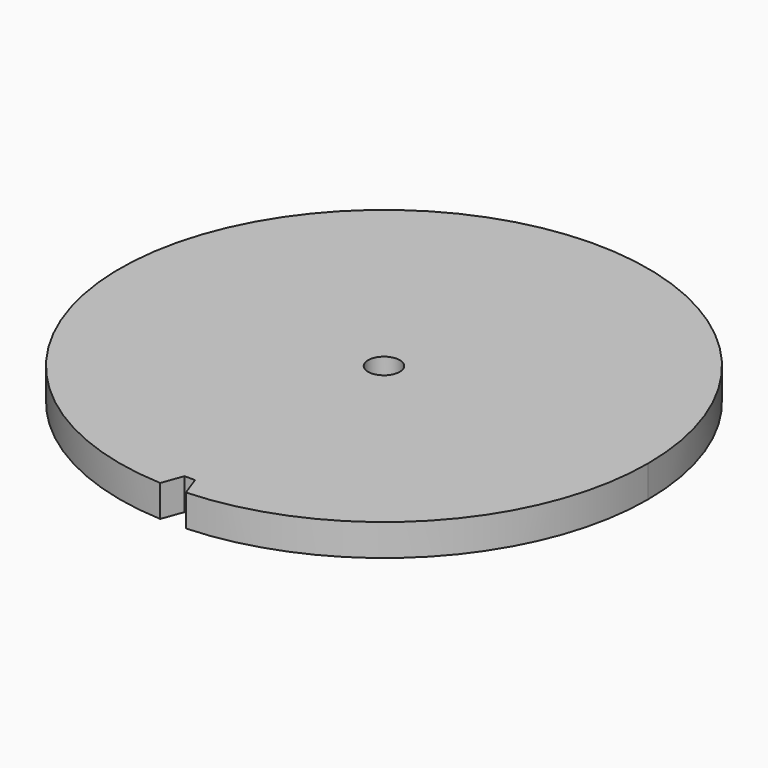
from build123d import *

# Parameters (mm, degrees)
F0_R     = 50
F1_DEPTH = 6
F2_R     = 3
F3_DEPTH = 6
F5_DEPTH = 6


with BuildPart() as f1:
    # F0 (on Top) → F1 (new body)
    with BuildSketch(Plane.XY):
        Circle(F0_R)
    extrude(amount=F1_DEPTH)

    # F2 (on face) → F3 (cut, through all)
    with BuildSketch(Plane(origin=(0, 0, 0), x_dir=(1, 0, 0), z_dir=(0, 0, -1))):
        Circle(F2_R)
    extrude(amount=-F3_DEPTH, mode=Mode.SUBTRACT)

    # F4 (on face) → F5 (cut, through all)
    with BuildSketch(Plane(origin=(0, 0, 0), x_dir=(1, 0, 0), z_dir=(0, 0, -1))):
        with BuildLine():
            Line((-1, 45.989129), (1, 45.989129))
            Line((1, 45.989129), (2.438188, 49.940517))
            ThreePointArc((2.438188, 49.940517), (0, 50.729887), (-2.438188, 49.940517))
            Line((-2.438188, 49.940517), (-1, 45.989129))
        make_face()
    extrude(amount=-F5_DEPTH, mode=Mode.SUBTRACT)


solid = f1.part
